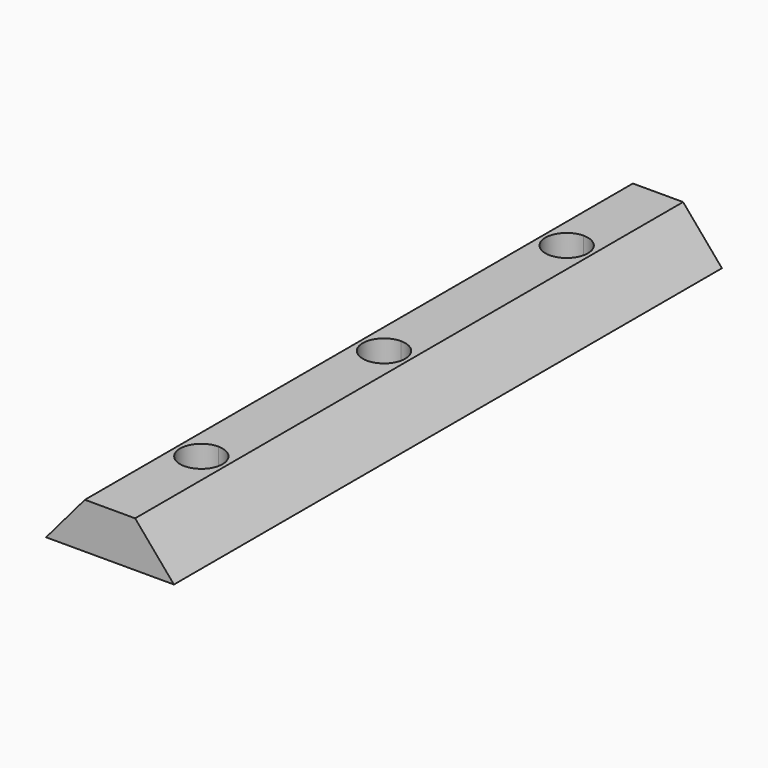
from build123d import *

# Parameters (mm, degrees)
F1_DEPTH = 75
F3_DEPTH = 5


with BuildPart() as f1:
    # F0 (on Front) → F1 (new body)
    with BuildSketch(Plane.XZ):
        Polygon((4.25, 5), (0, 0), (7, 0), (7, 5), align=None)
        Polygon((7, 5), (7, 0), (14, 0), (9.75, 5), align=None)
    extrude(amount=F1_DEPTH)

    # F2 (on face) → F3 (cut, through all)
    with BuildSketch(Plane.XY.offset(5)):
        with BuildLine():
            ThreePointArc((7, -14.825), (8.644023, -14.144023), (9.325, -12.5))
            ThreePointArc((9.325, -12.5), (8.644023, -10.855977), (7, -10.175))
            Line((7, -10.175), (7, -14.825))
        make_face()
        with BuildLine():
            ThreePointArc((9.325, -62.5), (8.644023, -60.855977), (7, -60.175))
            Line((7, -60.175), (7, -64.825))
            ThreePointArc((7, -64.825), (8.644023, -64.144023), (9.325, -62.5))
        make_face()
        with BuildLine():
            Line((7, -64.825), (7, -60.175))
            ThreePointArc((7, -60.175), (4.675, -62.5), (7, -64.825))
        make_face()
        with BuildLine():
            ThreePointArc((9.325, -37.5), (8.644023, -35.855977), (7, -35.175))
            Line((7, -35.175), (7, -39.825))
            ThreePointArc((7, -39.825), (8.644023, -39.144023), (9.325, -37.5))
        make_face()
        with BuildLine():
            Line((7, -39.825), (7, -35.175))
            ThreePointArc((7, -35.175), (4.675, -37.5), (7, -39.825))
        make_face()
        with BuildLine():
            Line((7, -14.825), (7, -10.175))
            ThreePointArc((7, -10.175), (4.675, -12.5), (7, -14.825))
        make_face()
    extrude(amount=-F3_DEPTH, mode=Mode.SUBTRACT)


solid = f1.part
